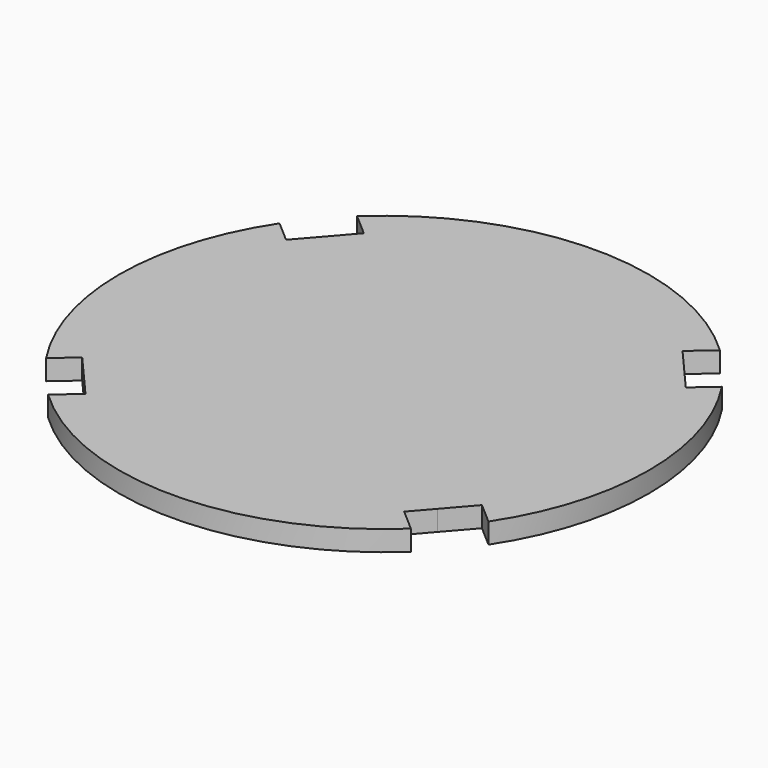
from build123d import *

# Parameters (mm, degrees)
F0_R     = 165.1
F1_DEPTH = 12.7
F3_DEPTH = 25.4


with BuildPart() as f1:
    # F0 (on Top) → F1 (new body)
    with BuildSketch(Plane.XY):
        Circle(F0_R)
    extrude(amount=F1_DEPTH)

    # F2 (on face) → F3 (cut)
    with BuildSketch(Plane.XY.offset(12.7)):
        with BuildLine():
            Line((137.808496, -90.922101), (124.538028, -79.372378))
            Line((124.538028, -79.372378), (124.538028, -108.389527))
            ThreePointArc((124.538028, -108.389527), (131.463692, -99.876462), (137.808496, -90.922101))
        make_face()
        Polygon((124.538028, -108.389527), (124.538028, -79.372378), (110.168256, -95.883043), align=None)
        Polygon((110.168256, -95.883043), (99.283453, -108.389527), (124.538028, -108.389527), align=None)
        with BuildLine():
            Line((124.538028, -108.389527), (99.283453, -108.389527))
            Line((99.283453, -108.389527), (113.023665, -120.348083))
            ThreePointArc((113.023665, -120.348083), (118.931246, -114.513618), (124.538028, -108.389527))
        make_face()
        with BuildLine():
            Line((-99.283453, -108.389527), (-124.538028, -108.389527))
            ThreePointArc((-124.538028, -108.389527), (-118.931246, -114.513618), (-113.023665, -120.348083))
            Line((-113.023665, -120.348083), (-99.283453, -108.389527))
        make_face()
        Polygon((-110.168256, -95.883043), (-124.538028, -108.389527), (-99.283453, -108.389527), align=None)
        Polygon((-110.168256, -95.883043), (-124.538028, -79.372378), (-124.538028, -108.389527), align=None)
        with BuildLine():
            Line((-124.538028, -108.389527), (-124.538028, -79.372378))
            Line((-124.538028, -79.372378), (-137.808496, -90.922101))
            ThreePointArc((-137.808496, -90.922101), (-131.463692, -99.876462), (-124.538028, -108.389527))
        make_face()
        Polygon((-110.168256, 95.883043), (-124.538028, 108.389527), (-124.538028, 79.372378), align=None)
        with BuildLine():
            Line((-124.538028, 79.372378), (-124.538028, 108.389527))
            ThreePointArc((-124.538028, 108.389527), (-131.463692, 99.876462), (-137.808496, 90.922101))
            Line((-137.808496, 90.922101), (-124.538028, 79.372378))
        make_face()
        Polygon((-99.283453, 108.389527), (-124.538028, 108.389527), (-110.168256, 95.883043), align=None)
        with BuildLine():
            ThreePointArc((-113.023665, 120.348083), (-118.931246, 114.513618), (-124.538028, 108.389527))
            Line((-124.538028, 108.389527), (-99.283453, 108.389527))
            Line((-99.283453, 108.389527), (-113.023665, 120.348083))
        make_face()
        Polygon((124.538028, 108.389527), (99.283453, 108.389527), (110.168256, 95.883043), align=None)
        with BuildLine():
            Line((113.023665, 120.348083), (99.283453, 108.389527))
            Line((99.283453, 108.389527), (124.538028, 108.389527))
            ThreePointArc((124.538028, 108.389527), (118.931246, 114.513618), (113.023665, 120.348083))
        make_face()
        Polygon((124.538028, 79.372378), (124.538028, 108.389527), (110.168256, 95.883043), align=None)
        with BuildLine():
            ThreePointArc((137.808496, 90.922101), (131.463692, 99.876462), (124.538028, 108.389527))
            Line((124.538028, 108.389527), (124.538028, 79.372378))
            Line((124.538028, 79.372378), (137.808496, 90.922101))
        make_face()
    extrude(amount=-F3_DEPTH, mode=Mode.SUBTRACT)


solid = f1.part
